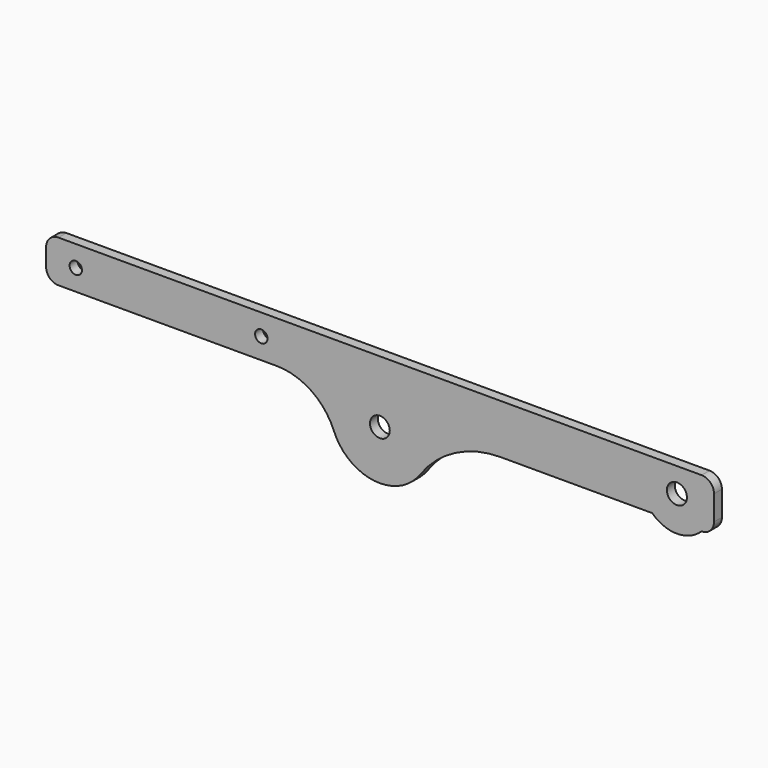
from build123d import *

# Parameters (mm, degrees)
SKETCH_R   = 4
SKETCH_R_2 = 4.05
SKETCH_R_3 = 2.5
PAD_DEPTH  = 4


with BuildPart() as part:
    # Sketch → Pad (new body)
    with BuildSketch(Plane.XZ):
        with BuildLine():
            Line((-134.93, 13.165085), (-134.93, 20.165085))
            ThreePointArc((-129.93, 25.165085), (-133.465534, 23.700619), (-134.93, 20.165085))
            Line((-129.93, 25.165085), (130.07, 25.165085))
            ThreePointArc((135.07, 20.165085), (133.605534, 23.700619), (130.07, 25.165085))
            Line((135.07, 20.165085), (135.07, 10.165085))
            ThreePointArc((130.07, 5.165085), (133.605534, 6.629551), (135.07, 10.165085))
            Line((130.07, 5.165085), (130.023889, 5.165085))
            ThreePointArc((110.116111, 5.165085), (120.07, 1.093085), (130.023889, 5.165085))
            Line((110.116111, 5.165085), (48.852111, 5.165085))
            ThreePointArc((48.852111, 5.165085), (30.534511, 0.724409), (16.284037, -11.611638))
            ThreePointArc((-18.547693, -7.482184), (-2.354598, -19.860913), (16.284037, -11.611638))
            ThreePointArc((-18.547693, -7.482184), (-27.746929, 3.887274), (-41.732309, 8.165085))
            Line((-129.93, 8.165085), (-41.732309, 8.165085))
            ThreePointArc((-134.93, 13.165085), (-133.465534, 9.629551), (-129.93, 8.165085))
        make_face()
        Circle(SKETCH_R, mode=Mode.SUBTRACT)
        with Locations((120.07, 15.295085)):
            Circle(SKETCH_R_2, mode=Mode.SUBTRACT)
        with Locations((-122.93, 16.665085)):
            Circle(SKETCH_R_3, mode=Mode.SUBTRACT)
        with Locations((-47.93, 16.665085)):
            Circle(SKETCH_R_3, mode=Mode.SUBTRACT)
    extrude(amount=PAD_DEPTH)


solid = part.part
